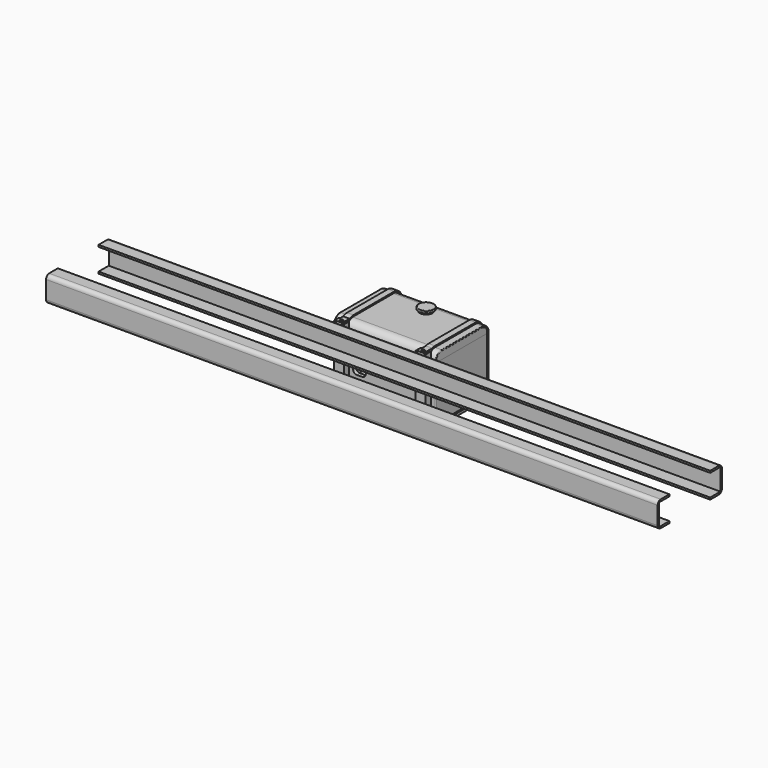
from build123d import *

# Parameters (mm, degrees)
BOX417_W                = 480
BOX417_H                = 10
BOX417_DEPTH            = 17
BOX416_W                = 480
BOX416_H                = 11.5
BOX416_DEPTH            = 20
FILLET268_R             = 3
BOX419_W                = 480
BOX419_H                = 10
BOX419_DEPTH            = 17
BOX418_W                = 480
BOX418_H                = 11.5
BOX418_DEPTH            = 20
FILLET269_R             = 3
BOX567_W                = 72
BOX567_H                = 44
BOX567_DEPTH            = 2
BOX566_W                = 77
BOX566_H                = 49
BOX566_DEPTH            = 2
FILLET396_R             = 2.5
BOX558_W                = 80
BOX558_H                = 52
BOX558_DEPTH            = 44
BOX563_W                = 74
BOX563_H                = 46
BOX563_DEPTH            = 44
FILLET395_R             = 4
BOX560_W                = 0.5
BOX560_H                = 51
BOX560_DEPTH            = 49
FILLET390_R             = 6
BOX562_W                = 0.5
BOX562_H                = 51
BOX562_DEPTH            = 49
FILLET393_R             = 6
BOX561_W                = 80
BOX561_H                = 52
BOX561_DEPTH            = 50
FILLET392_R             = 6
CYLINDER972_R           = 5
CYLINDER972_DEPTH       = 3
CYLINDER971_R           = 6
CYLINDER971_DEPTH       = 2
FILLET391_R             = 0.5
CHAMFER117_SIZE         = 0.49
CHAMFER118_SIZE         = 0.49
FILLET394_R             = 0.49
CYLINDER984_R           = 3
CYLINDER984_DEPTH       = 15
CYLINDER984_ROLL_ANGLE  = 90
CYLINDER983_R           = 3
CYLINDER983_DEPTH       = 15
CYLINDER983_ROLL_ANGLE  = 90
CYLINDER978_R           = 1.2
CYLINDER978_DEPTH       = 15
CYLINDER976_R           = 1.2
CYLINDER976_DEPTH       = 15
CYLINDER977_R           = 1.2
CYLINDER977_DEPTH       = 15
CYLINDER975_R           = 1.2
CYLINDER975_DEPTH       = 15
CYLINDER966_R           = 3.1
CYLINDER966_DEPTH       = 2
CYLINDER966_ROLL_ANGLE  = 90
CYLINDER967_R           = 3.1
CYLINDER967_DEPTH       = 2
CYLINDER967_ROLL_ANGLE  = 90
CYLINDER965_R           = 1.6
CYLINDER965_DEPTH       = 15
CYLINDER965_ROLL_ANGLE  = 90
CYLINDER964_R           = 1.6
CYLINDER964_DEPTH       = 15
CYLINDER964_ROLL_ANGLE  = 90
BOX565_W                = 74
BOX565_H                = 46
BOX565_DEPTH            = 2
BOX564_W                = 76
BOX564_H                = 48
BOX564_DEPTH            = 2
FILLET397_R             = 2
BOX554_W                = 10
BOX554_H                = 5
BOX554_DEPTH            = 15
FILLET388_R             = 3
BOX559_W                = 80
BOX559_H                = 52
BOX559_DEPTH            = 10
BOX541_W                = 74
BOX541_H                = 46
BOX541_DEPTH            = 44
FILLET_R                = 4
BOX517_W                = 0.5
BOX517_H                = 51
BOX517_DEPTH            = 49
FILLET372_R             = 6
BOX519_W                = 0.5
BOX519_H                = 51
BOX519_DEPTH            = 49
FILLET375_R             = 6
BOX518_W                = 80
BOX518_H                = 52
BOX518_DEPTH            = 50
FILLET374_R             = 6
CYLINDER951_R           = 5
CYLINDER951_DEPTH       = 3
CYLINDER950_R           = 6
CYLINDER950_DEPTH       = 2
FILLET373_R             = 0.5
CHAMFER109_SIZE         = 0.49
CHAMFER110_SIZE         = 0.49
FILLET376_R             = 0.49
CYLINDER954_R           = 1
CYLINDER954_DEPTH       = 8
CYLINDER954_PITCH_ANGLE = 90
CYLINDER979_R           = 0.9
CYLINDER979_DEPTH       = 15
CYLINDER980_R           = 0.9
CYLINDER980_DEPTH       = 15
CYLINDER973_R           = 1.6
CYLINDER973_DEPTH       = 15
CYLINDER973_ROLL_ANGLE  = 90
CYLINDER962_R           = 1
CYLINDER962_DEPTH       = 10
BOX540_W                = 5.5
BOX540_H                = 5
BOX540_DEPTH            = 2.5
BOX539_W                = 8
BOX539_H                = 5
BOX539_DEPTH            = 50
BOX527_W                = 5.5
BOX527_H                = 6
BOX527_DEPTH            = 4
BOX523_W                = 8
BOX523_H                = 55
BOX523_DEPTH            = 5
FILLET404_R             = 8
FILLET405_R             = 5
CYLINDER985_R           = 1
CYLINDER985_DEPTH       = 8
CYLINDER985_PITCH_ANGLE = 90
CYLINDER988_R           = 0.9
CYLINDER988_DEPTH       = 15
CYLINDER989_R           = 0.9
CYLINDER989_DEPTH       = 15
CYLINDER987_R           = 1.6
CYLINDER987_DEPTH       = 15
CYLINDER987_ROLL_ANGLE  = 90
CYLINDER986_R           = 1
CYLINDER986_DEPTH       = 10
BOX573_W                = 5.5
BOX573_H                = 5
BOX573_DEPTH            = 2.5
BOX572_W                = 8
BOX572_H                = 5
BOX572_DEPTH            = 50
BOX571_W                = 5.5
BOX571_H                = 6
BOX571_DEPTH            = 4
BOX570_W                = 8
BOX570_H                = 55
BOX570_DEPTH            = 5
FILLET406_R             = 8
FILLET407_R             = 5
CYLINDER992_R           = 1.2
CYLINDER992_DEPTH       = 10
CYLINDER991_R           = 1.1
CYLINDER991_DEPTH       = 5
CYLINDER991_PITCH_ANGLE = 90
BOX575_W                = 5
BOX575_H                = 52
BOX575_DEPTH            = 50
FILLET408_R             = 6
BOX577_W                = 5
BOX577_H                = 10
BOX577_DEPTH            = 2.5
CYLINDER990_R           = 2
CYLINDER990_DEPTH       = 5
CYLINDER990_PITCH_ANGLE = 90
BOX576_W                = 5
BOX576_H                = 51
BOX576_DEPTH            = 50
BOX574_W                = 5
BOX574_H                = 54
BOX574_DEPTH            = 52
FILLET409_R             = 7
CHAMFER119_SIZE         = 0.145
CYLINDER995_R           = 1.2
CYLINDER995_DEPTH       = 10
CYLINDER994_R           = 1.1
CYLINDER994_DEPTH       = 5
CYLINDER994_PITCH_ANGLE = 90
BOX579_W                = 5
BOX579_H                = 53
BOX579_DEPTH            = 51
FILLET410_R             = 6.5
CYLINDER993_R           = 2
CYLINDER993_DEPTH       = 5
CYLINDER993_PITCH_ANGLE = 90
BOX581_W                = 5
BOX581_H                = 10
BOX581_DEPTH            = 2.5
BOX580_W                = 5
BOX580_H                = 51
BOX580_DEPTH            = 50
BOX578_W                = 5
BOX578_H                = 55
BOX578_DEPTH            = 53
FILLET411_R             = 7.5
FILLET412_R             = 1.5


with BuildPart() as cube642:
    # Box417 → Box417 (new body)
    with BuildSketch(Plane(origin=(0, 1.5, -90.5), x_dir=(1, 0, 0), z_dir=(0, 0, 1))):
        with Locations((240, 5)):
            Rectangle(BOX417_W, BOX417_H)
    extrude(amount=BOX417_DEPTH)


with BuildPart() as fillet268:
    # Box416 → Box416 (new body)
    with BuildSketch(Plane.XY.offset(-92)):
        with Locations((240, 5.75)):
            Rectangle(BOX416_W, BOX416_H)
    extrude(amount=BOX416_DEPTH)

    # Cut429: cut Cube642
    add(cube642.part, mode=Mode.SUBTRACT)

    # Fillet268
    fillet268_edges = [fillet268.edges().sort_by_distance(p)[0] for p in [
        (240, 0, -72),
        (240, 0, -92),
    ]]
    fillet(fillet268_edges, radius=FILLET268_R)


with BuildPart() as fillet268_1:
    # Fillet268 placement: moved
    add(fillet268.part.moved(Location((0, -1.5, 0))))


with BuildPart() as cube644:
    # Box419 → Box419 (new body)
    with BuildSketch(Plane(origin=(0, 1.5, -90.5), x_dir=(1, 0, 0), z_dir=(0, 0, 1))):
        with Locations((240, 5)):
            Rectangle(BOX419_W, BOX419_H)
    extrude(amount=BOX419_DEPTH)


with BuildPart() as fillet269:
    # Box418 → Box418 (new body)
    with BuildSketch(Plane.XY.offset(-92)):
        with Locations((240, 5.75)):
            Rectangle(BOX418_W, BOX418_H)
    extrude(amount=BOX418_DEPTH)

    # Cut430: cut Cube644
    add(cube644.part, mode=Mode.SUBTRACT)

    # Fillet269
    fillet269_edges = [fillet269.edges().sort_by_distance(p)[0] for p in [
        (240, 0, -72),
        (240, 0, -92),
    ]]
    fillet(fillet269_edges, radius=FILLET269_R)


with BuildPart() as fusion231:
    # Part__Mirroring036: instance of Fillet269
    add(fillet269.part.mirror(Plane(origin=(0, 0, 0), x_dir=(1, 0, 0), z_dir=(0, 1, 0))))


with BuildPart() as fusion231_1:
    # Part__Mirroring036 placement: moved
    add(fusion231.part.moved(Location((0, 61.5, 0))))

    # Fusion231: union Fillet268
    add(fillet268_1.part)


with BuildPart() as fusion231_2:
    # Fusion231 placement: moved
    add(fusion231_1.part.moved(Location((23.5, 55, 74))))


with BuildPart() as cube768:
    # Box567 → Box567 (new body)
    with BuildSketch(Plane(origin=(199, 125.5, -5), x_dir=(1, 0, 0), z_dir=(0, 0, 1))):
        with Locations((36, 22)):
            Rectangle(BOX567_W, BOX567_H)
    extrude(amount=BOX567_DEPTH)


with BuildPart() as fillet396:
    # Box566 → Box566 (new body)
    with BuildSketch(Plane(origin=(196.5, 123, -5), x_dir=(1, 0, 0), z_dir=(0, 0, 1))):
        with Locations((38.5, 24.5)):
            Rectangle(BOX566_W, BOX566_H)
    extrude(amount=BOX566_DEPTH)

    # Cut014142: cut Cube768
    add(cube768.part, mode=Mode.SUBTRACT)

    # Fillet396
    fillet396_edges = [fillet396.edges().sort_by_distance(p)[0] for p in [
        (196.5, 123, -4),
        (196.5, 172, -4),
        (273.5, 123, -4),
        (273.5, 172, -4),
    ]]
    fillet(fillet396_edges, radius=FILLET396_R)


with BuildPart() as cube759:
    # Box558 → Box558 (new body)
    with BuildSketch(Plane(origin=(195, 121.5, -52), x_dir=(1, 0, 0), z_dir=(0, 0, 1))):
        with Locations((40, 26)):
            Rectangle(BOX558_W, BOX558_H)
    extrude(amount=BOX558_DEPTH)


with BuildPart() as fillet395:
    # Box563 → Box563 (new body)
    with BuildSketch(Plane(origin=(198, 124.5, -48), x_dir=(1, 0, 0), z_dir=(0, 0, 1))):
        with Locations((37, 23)):
            Rectangle(BOX563_W, BOX563_H)
    extrude(amount=BOX563_DEPTH)

    # Fillet395
    fillet395_edges = [fillet395.edges().sort_by_distance(p)[0] for p in [
        (235, 124.5, -48),
        (235, 124.5, -4),
        (235, 170.5, -48),
        (235, 170.5, -4),
    ]]
    fillet(fillet395_edges, radius=FILLET395_R)


with BuildPart() as fillet390:
    # Box560 → Box560 (new body)
    with BuildSketch(Plane(origin=(195, 122, -50.5), x_dir=(1, 0, 0), z_dir=(0, 0, 1))):
        with Locations((0.25, 25.5)):
            Rectangle(BOX560_W, BOX560_H)
    extrude(amount=BOX560_DEPTH)

    # Fillet390
    fillet390_edges = [fillet390.edges().sort_by_distance(p)[0] for p in [
        (195.25, 122, -50.5),
        (195.25, 122, -1.5),
        (195.25, 173, -50.5),
        (195.25, 173, -1.5),
    ]]
    fillet(fillet390_edges, radius=FILLET390_R)


with BuildPart() as fusion632:
    # Box562 → Box562 (new body)
    with BuildSketch(Plane(origin=(195, 122, -50.5), x_dir=(1, 0, 0), z_dir=(0, 0, 1))):
        with Locations((0.25, 25.5)):
            Rectangle(BOX562_W, BOX562_H)
    extrude(amount=BOX562_DEPTH)

    # Fillet393
    fillet393_edges = [fusion632.edges().sort_by_distance(p)[0] for p in [
        (195.25, 122, -50.5),
        (195.25, 122, -1.5),
        (195.25, 173, -50.5),
        (195.25, 173, -1.5),
    ]]
    fillet(fillet393_edges, radius=FILLET393_R)


with BuildPart() as fusion632_1:
    # Fillet393 placement: moved
    add(fusion632.part.moved(Location((79.5, 0, 0))))

    # Fusion632: union Fillet390
    add(fillet390.part)


with BuildPart() as fillet392:
    # Box561 → Box561 (new body)
    with BuildSketch(Plane(origin=(195, 121.5, -51), x_dir=(1, 0, 0), z_dir=(0, 0, 1))):
        with Locations((40, 26)):
            Rectangle(BOX561_W, BOX561_H)
    extrude(amount=BOX561_DEPTH)

    # Fillet392
    fillet392_edges = [fillet392.edges().sort_by_distance(p)[0] for p in [
        (235, 121.5, -51),
        (235, 121.5, -1),
        (235, 173.5, -51),
        (235, 173.5, -1),
    ]]
    fillet(fillet392_edges, radius=FILLET392_R)


with BuildPart() as cylinder1023:
    # Cylinder972 → Cylinder972 (new body)
    with BuildSketch(Plane(origin=(235, 162, -1), x_dir=(1, 0, 0), z_dir=(0, 0, 1))):
        Circle(CYLINDER972_R)
    extrude(amount=CYLINDER972_DEPTH)


with BuildPart() as fuel_tank_upper:
    # Cylinder971 → Cylinder971 (new body)
    with BuildSketch(Plane(origin=(235, 162, 0), x_dir=(1, 0, 0), z_dir=(0, 0, 1))):
        Circle(CYLINDER971_R)
    extrude(amount=CYLINDER971_DEPTH)

    # Fusion630: union Cylinder1023
    add(cylinder1023.part)

    # Fillet391
    fillet391_edges = [fuel_tank_upper.edges().sort_by_distance(p)[0] for p in [
        (229, 162, 2),
        (229, 162, 0),
    ]]
    fillet(fillet391_edges, radius=FILLET391_R)

    # Chamfer117
    chamfer117_edges = [fuel_tank_upper.edges().sort_by_distance(p)[0] for p in [
        (230, 162, 0),
    ]]
    chamfer(chamfer117_edges, length=CHAMFER117_SIZE)

    # Fusion631: union Fillet392
    add(fillet392.part)

    # Cut014136: cut Fusion632
    add(fusion632_1.part, mode=Mode.SUBTRACT)

    # Chamfer118
    chamfer118_edges = [fuel_tank_upper.edges().sort_by_distance(p)[0] for p in [
        (195.5, 147.5, -1.5),
        (274.5, 147.5, -1.5),
    ]]
    chamfer(chamfer118_edges, length=CHAMFER118_SIZE)

    # Fillet394
    fillet394_edges = [fuel_tank_upper.edges().sort_by_distance(p)[0] for p in [
        (195, 147.5, -1),
        (275, 147.5, -1),
    ]]
    fillet(fillet394_edges, radius=FILLET394_R)

    # Cut014137: cut Fillet395
    add(fillet395.part, mode=Mode.SUBTRACT)

    # Cut014138: cut Cube759
    add(cube759.part, mode=Mode.SUBTRACT)


with BuildPart() as fuel_tank_upper_1:
    # Cut014138 placement: moved
    add(fuel_tank_upper.part.moved(Location((0, 0, 3))))

    # Cut014143: cut Fillet396
    add(fillet396.part, mode=Mode.SUBTRACT)


with BuildPart() as cylinder1035:
    # Cylinder984 → Cylinder984 (new body)
    with BuildSketch(Plane.XY):
        Circle(CYLINDER984_R)
    extrude(amount=CYLINDER984_DEPTH)


with BuildPart() as cylinder1035_1:
    # Cylinder984 roll: moved
    add(cylinder1035.part.rotate(Axis((0, 0, 0), (1, 0, 0)), CYLINDER984_ROLL_ANGLE))


with BuildPart() as cylinder1035_2:
    # Cylinder984 placement: moved
    add(cylinder1035_1.part.moved(Location((267, 123, -8))))


with BuildPart() as fusion640:
    # Cylinder983 → Cylinder983 (new body)
    with BuildSketch(Plane.XY):
        Circle(CYLINDER983_R)
    extrude(amount=CYLINDER983_DEPTH)


with BuildPart() as fusion640_1:
    # Cylinder983 roll: moved
    add(fusion640.part.rotate(Axis((0, 0, 0), (1, 0, 0)), CYLINDER983_ROLL_ANGLE))


with BuildPart() as fusion640_2:
    # Cylinder983 placement: moved
    add(fusion640_1.part.moved(Location((203, 123, -8))))

    # Fusion640: union Cylinder1035
    add(cylinder1035_2.part)


with BuildPart() as fusion640_3:
    # Fusion640 placement: moved
    add(fusion640_2.part.moved(Location((0, 54, 6))))


with BuildPart() as cylinder1029:
    # Cylinder978 → Cylinder978 (new body)
    with BuildSketch(Plane(origin=(267, 132, -59), x_dir=(1, 0, 0), z_dir=(0, 0, 1))):
        Circle(CYLINDER978_R)
    extrude(amount=CYLINDER978_DEPTH)


with BuildPart() as cylinder1027:
    # Cylinder976 → Cylinder976 (new body)
    with BuildSketch(Plane(origin=(203, 163, -59), x_dir=(1, 0, 0), z_dir=(0, 0, 1))):
        Circle(CYLINDER976_R)
    extrude(amount=CYLINDER976_DEPTH)


with BuildPart() as cylinder1028:
    # Cylinder977 → Cylinder977 (new body)
    with BuildSketch(Plane(origin=(267, 163, -59), x_dir=(1, 0, 0), z_dir=(0, 0, 1))):
        Circle(CYLINDER977_R)
    extrude(amount=CYLINDER977_DEPTH)


with BuildPart() as fusion637:
    # Cylinder975 → Cylinder975 (new body)
    with BuildSketch(Plane(origin=(203, 132, -59), x_dir=(1, 0, 0), z_dir=(0, 0, 1))):
        Circle(CYLINDER975_R)
    extrude(amount=CYLINDER975_DEPTH)

    # Fusion637: union Cylinder1029, Cylinder1027, Cylinder1028
    add(cylinder1029.part)
    add(cylinder1027.part)
    add(cylinder1028.part)


with BuildPart() as cylinder1017:
    # Cylinder966 → Cylinder966 (new body)
    with BuildSketch(Plane.XY):
        Circle(CYLINDER966_R)
    extrude(amount=CYLINDER966_DEPTH)


with BuildPart() as cylinder1017_1:
    # Cylinder966 roll: moved
    add(cylinder1017.part.rotate(Axis((0, 0, 0), (1, 0, 0)), CYLINDER966_ROLL_ANGLE))


with BuildPart() as cylinder1017_2:
    # Cylinder966 placement: moved
    add(cylinder1017_1.part.moved(Location((203, 123, -8))))


with BuildPart() as cylinder1018:
    # Cylinder967 → Cylinder967 (new body)
    with BuildSketch(Plane.XY):
        Circle(CYLINDER967_R)
    extrude(amount=CYLINDER967_DEPTH)


with BuildPart() as cylinder1018_1:
    # Cylinder967 roll: moved
    add(cylinder1018.part.rotate(Axis((0, 0, 0), (1, 0, 0)), CYLINDER967_ROLL_ANGLE))


with BuildPart() as cylinder1018_2:
    # Cylinder967 placement: moved
    add(cylinder1018_1.part.moved(Location((267, 123, -8))))


with BuildPart() as cylinder1016:
    # Cylinder965 → Cylinder965 (new body)
    with BuildSketch(Plane.XY):
        Circle(CYLINDER965_R)
    extrude(amount=CYLINDER965_DEPTH)


with BuildPart() as cylinder1016_1:
    # Cylinder965 roll: moved
    add(cylinder1016.part.rotate(Axis((0, 0, 0), (1, 0, 0)), CYLINDER965_ROLL_ANGLE))


with BuildPart() as cylinder1016_2:
    # Cylinder965 placement: moved
    add(cylinder1016_1.part.moved(Location((267, 123, -8))))


with BuildPart() as fusion624:
    # Cylinder964 → Cylinder964 (new body)
    with BuildSketch(Plane.XY):
        Circle(CYLINDER964_R)
    extrude(amount=CYLINDER964_DEPTH)


with BuildPart() as fusion624_1:
    # Cylinder964 roll: moved
    add(fusion624.part.rotate(Axis((0, 0, 0), (1, 0, 0)), CYLINDER964_ROLL_ANGLE))


with BuildPart() as fusion624_2:
    # Cylinder964 placement: moved
    add(fusion624_1.part.moved(Location((203, 123, -8))))

    # Fusion624: union Cylinder1017, Cylinder1018, Cylinder1016
    add(cylinder1017_2.part)
    add(cylinder1018_2.part)
    add(cylinder1016_2.part)


with BuildPart() as fusion624_3:
    # Fusion624 placement: moved
    add(fusion624_2.part.moved(Location((0, 2.5, 0))))


with BuildPart() as cube766:
    # Box565 → Box565 (new body)
    with BuildSketch(Plane(origin=(198, 124.5, -5), x_dir=(1, 0, 0), z_dir=(0, 0, 1))):
        with Locations((37, 23)):
            Rectangle(BOX565_W, BOX565_H)
    extrude(amount=BOX565_DEPTH)


with BuildPart() as fillet397:
    # Box564 → Box564 (new body)
    with BuildSketch(Plane(origin=(197, 123.5, -5), x_dir=(1, 0, 0), z_dir=(0, 0, 1))):
        with Locations((38, 24)):
            Rectangle(BOX564_W, BOX564_H)
    extrude(amount=BOX564_DEPTH)

    # Cut014141: cut Cube766
    add(cube766.part, mode=Mode.SUBTRACT)

    # Fillet397
    fillet397_edges = [fillet397.edges().sort_by_distance(p)[0] for p in [
        (197, 123.5, -4),
        (197, 171.5, -4),
        (273, 123.5, -4),
        (273, 171.5, -4),
    ]]
    fillet(fillet397_edges, radius=FILLET397_R)


with BuildPart() as fillet388:
    # Box554 → Box554 (new body)
    with BuildSketch(Plane(origin=(210, 118.5, -33), x_dir=(1, 0, 0), z_dir=(0, 0, 1))):
        with Locations((5, 2.5)):
            Rectangle(BOX554_W, BOX554_H)
    extrude(amount=BOX554_DEPTH)

    # Fillet388
    fillet388_edges = [fillet388.edges().sort_by_distance(p)[0] for p in [
        (210, 121, -18),
        (210, 121, -33),
        (220, 121, -18),
        (220, 121, -33),
    ]]
    fillet(fillet388_edges, radius=FILLET388_R)


with BuildPart() as fillet388_1:
    # Fillet388 placement: moved
    add(fillet388.part.moved(Location((0, 1, 0))))


with BuildPart() as cube760:
    # Box559 → Box559 (new body)
    with BuildSketch(Plane(origin=(195, 121.5, -8), x_dir=(1, 0, 0), z_dir=(0, 0, 1))):
        with Locations((40, 26)):
            Rectangle(BOX559_W, BOX559_H)
    extrude(amount=BOX559_DEPTH)


with BuildPart() as fillet_body:
    # Box541 → Box541 (new body)
    with BuildSketch(Plane(origin=(198, 124.5, -48), x_dir=(1, 0, 0), z_dir=(0, 0, 1))):
        with Locations((37, 23)):
            Rectangle(BOX541_W, BOX541_H)
    extrude(amount=BOX541_DEPTH)

    # Fillet
    fillet_edges = [fillet_body.edges().sort_by_distance(p)[0] for p in [
        (235, 124.5, -48),
        (235, 124.5, -4),
        (235, 170.5, -48),
        (235, 170.5, -4),
    ]]
    fillet(fillet_edges, radius=FILLET_R)


with BuildPart() as fillet372:
    # Box517 → Box517 (new body)
    with BuildSketch(Plane(origin=(195, 122, -50.5), x_dir=(1, 0, 0), z_dir=(0, 0, 1))):
        with Locations((0.25, 25.5)):
            Rectangle(BOX517_W, BOX517_H)
    extrude(amount=BOX517_DEPTH)

    # Fillet372
    fillet372_edges = [fillet372.edges().sort_by_distance(p)[0] for p in [
        (195.25, 122, -50.5),
        (195.25, 122, -1.5),
        (195.25, 173, -50.5),
        (195.25, 173, -1.5),
    ]]
    fillet(fillet372_edges, radius=FILLET372_R)


with BuildPart() as fusion607:
    # Box519 → Box519 (new body)
    with BuildSketch(Plane(origin=(195, 122, -50.5), x_dir=(1, 0, 0), z_dir=(0, 0, 1))):
        with Locations((0.25, 25.5)):
            Rectangle(BOX519_W, BOX519_H)
    extrude(amount=BOX519_DEPTH)

    # Fillet375
    fillet375_edges = [fusion607.edges().sort_by_distance(p)[0] for p in [
        (195.25, 122, -50.5),
        (195.25, 122, -1.5),
        (195.25, 173, -50.5),
        (195.25, 173, -1.5),
    ]]
    fillet(fillet375_edges, radius=FILLET375_R)


with BuildPart() as fusion607_1:
    # Fillet375 placement: moved
    add(fusion607.part.moved(Location((79.5, 0, 0))))

    # Fusion607: union Fillet372
    add(fillet372.part)


with BuildPart() as fillet374:
    # Box518 → Box518 (new body)
    with BuildSketch(Plane(origin=(195, 121.5, -51), x_dir=(1, 0, 0), z_dir=(0, 0, 1))):
        with Locations((40, 26)):
            Rectangle(BOX518_W, BOX518_H)
    extrude(amount=BOX518_DEPTH)

    # Fillet374
    fillet374_edges = [fillet374.edges().sort_by_distance(p)[0] for p in [
        (235, 121.5, -51),
        (235, 121.5, -1),
        (235, 173.5, -51),
        (235, 173.5, -1),
    ]]
    fillet(fillet374_edges, radius=FILLET374_R)


with BuildPart() as cylinder1003:
    # Cylinder951 → Cylinder951 (new body)
    with BuildSketch(Plane(origin=(235, 162, -1), x_dir=(1, 0, 0), z_dir=(0, 0, 1))):
        Circle(CYLINDER951_R)
    extrude(amount=CYLINDER951_DEPTH)


with BuildPart() as fuel_tank_lower:
    # Cylinder950 → Cylinder950 (new body)
    with BuildSketch(Plane(origin=(235, 162, 0), x_dir=(1, 0, 0), z_dir=(0, 0, 1))):
        Circle(CYLINDER950_R)
    extrude(amount=CYLINDER950_DEPTH)

    # Fusion605: union Cylinder1003
    add(cylinder1003.part)

    # Fillet373
    fillet373_edges = [fuel_tank_lower.edges().sort_by_distance(p)[0] for p in [
        (229, 162, 2),
        (229, 162, 0),
    ]]
    fillet(fillet373_edges, radius=FILLET373_R)

    # Chamfer109
    chamfer109_edges = [fuel_tank_lower.edges().sort_by_distance(p)[0] for p in [
        (230, 162, 0),
    ]]
    chamfer(chamfer109_edges, length=CHAMFER109_SIZE)

    # Fusion606: union Fillet374
    add(fillet374.part)

    # Cut014115: cut Fusion607
    add(fusion607_1.part, mode=Mode.SUBTRACT)

    # Chamfer110
    chamfer110_edges = [fuel_tank_lower.edges().sort_by_distance(p)[0] for p in [
        (195.5, 147.5, -1.5),
        (274.5, 147.5, -1.5),
    ]]
    chamfer(chamfer110_edges, length=CHAMFER110_SIZE)

    # Fillet376
    fillet376_edges = [fuel_tank_lower.edges().sort_by_distance(p)[0] for p in [
        (195, 147.5, -1),
        (275, 147.5, -1),
    ]]
    fillet(fillet376_edges, radius=FILLET376_R)

    # Cut: cut Fillet body
    add(fillet_body.part, mode=Mode.SUBTRACT)

    # Cut014139: cut Cube760
    add(cube760.part, mode=Mode.SUBTRACT)


with BuildPart() as fuel_tank_lower_1:
    # Cut014139 placement: moved
    add(fuel_tank_lower.part.moved(Location((0, 0, 3))))

    # Cut014140: cut Fillet388
    add(fillet388_1.part, mode=Mode.SUBTRACT)

    # Fusion: union Fillet397
    add(fillet397.part)

    # Cut014148: cut Fusion624
    add(fusion624_3.part, mode=Mode.SUBTRACT)

    # Cut014149: cut Fusion637
    add(fusion637.part, mode=Mode.SUBTRACT)

    # Cut014152: cut Fusion640
    add(fusion640_3.part, mode=Mode.SUBTRACT)


with BuildPart() as cylinder1006:
    # Cylinder954 → Cylinder954 (new body)
    with BuildSketch(Plane.XY):
        Circle(CYLINDER954_R)
    extrude(amount=CYLINDER954_DEPTH)


with BuildPart() as cylinder1006_1:
    # Cylinder954 pitch: moved
    add(cylinder1006.part.rotate(Axis((0, 0, 0), (0, 1, 0)), CYLINDER954_PITCH_ANGLE))


with BuildPart() as cylinder1006_2:
    # Cylinder954 placement: moved
    add(cylinder1006_1.part.moved(Location((199, 169, -50))))


with BuildPart() as cylinder1030:
    # Cylinder979 → Cylinder979 (new body)
    with BuildSketch(Plane(origin=(203, 132, -59), x_dir=(1, 0, 0), z_dir=(0, 0, 1))):
        Circle(CYLINDER979_R)
    extrude(amount=CYLINDER979_DEPTH)


with BuildPart() as cylinder1031:
    # Cylinder980 → Cylinder980 (new body)
    with BuildSketch(Plane(origin=(203, 163, -59), x_dir=(1, 0, 0), z_dir=(0, 0, 1))):
        Circle(CYLINDER980_R)
    extrude(amount=CYLINDER980_DEPTH)


with BuildPart() as cylinder1024:
    # Cylinder973 → Cylinder973 (new body)
    with BuildSketch(Plane.XY):
        Circle(CYLINDER973_R)
    extrude(amount=CYLINDER973_DEPTH)


with BuildPart() as cylinder1024_1:
    # Cylinder973 roll: moved
    add(cylinder1024.part.rotate(Axis((0, 0, 0), (1, 0, 0)), CYLINDER973_ROLL_ANGLE))


with BuildPart() as cylinder1024_2:
    # Cylinder973 placement: moved
    add(cylinder1024_1.part.moved(Location((203, 123, -8))))


with BuildPart() as fusion643:
    # Cylinder962 → Cylinder962 (new body)
    with BuildSketch(Plane(origin=(203, 119, -6.5), x_dir=(1, 0, 0), z_dir=(0, 0, 1))):
        Circle(CYLINDER962_R)
    extrude(amount=CYLINDER962_DEPTH)

    # Fusion643: union Cylinder1006, Cylinder1030, Cylinder1031, Cylinder1024
    add(cylinder1006_2.part)
    add(cylinder1030.part)
    add(cylinder1031.part)
    add(cylinder1024_2.part)


with BuildPart() as cube741:
    # Box540 → Box540 (new body)
    with BuildSketch(Plane(origin=(200.25, 116.5, -0.5), x_dir=(1, 0, 0), z_dir=(0, 0, 1))):
        with Locations((2.75, 2.5)):
            Rectangle(BOX540_W, BOX540_H)
    extrude(amount=BOX540_DEPTH)


with BuildPart() as cut014175:
    # Box539 → Box539 (new body)
    with BuildSketch(Plane(origin=(199, 116.5, -48), x_dir=(1, 0, 0), z_dir=(0, 0, 1))):
        with Locations((4, 2.5)):
            Rectangle(BOX539_W, BOX539_H)
    extrude(amount=BOX539_DEPTH)

    # Cut014158: cut Cube741
    add(cube741.part, mode=Mode.SUBTRACT)


with BuildPart() as cube728:
    # Box527 → Box527 (new body)
    with BuildSketch(Plane(origin=(200.25, 165.5, -52), x_dir=(1, 0, 0), z_dir=(0, 0, 1))):
        with Locations((2.75, 3)):
            Rectangle(BOX527_W, BOX527_H)
    extrude(amount=BOX527_DEPTH)


with BuildPart() as fuel_tank_holder_front:
    # Box523 → Box523 (new body)
    with BuildSketch(Plane(origin=(199, 116.5, -53), x_dir=(1, 0, 0), z_dir=(0, 0, 1))):
        with Locations((4, 27.5)):
            Rectangle(BOX523_W, BOX523_H)
    extrude(amount=BOX523_DEPTH)

    # Cut014157: cut Cube728
    add(cube728.part, mode=Mode.SUBTRACT)

    # Fusion644: union Cut014175
    add(cut014175.part)

    # Cut014159: cut Fusion643
    add(fusion643.part, mode=Mode.SUBTRACT)

    # Fillet404
    fillet404_edges = [fuel_tank_holder_front.edges().sort_by_distance(p)[0] for p in [
        (203, 116.5, -53),
    ]]
    fillet(fillet404_edges, radius=FILLET404_R)

    # Fillet405
    fillet405_edges = [fuel_tank_holder_front.edges().sort_by_distance(p)[0] for p in [
        (203, 121.5, -48),
    ]]
    fillet(fillet405_edges, radius=FILLET405_R)


with BuildPart() as cylinder1036:
    # Cylinder985 → Cylinder985 (new body)
    with BuildSketch(Plane.XY):
        Circle(CYLINDER985_R)
    extrude(amount=CYLINDER985_DEPTH)


with BuildPart() as cylinder1036_1:
    # Cylinder985 pitch: moved
    add(cylinder1036.part.rotate(Axis((0, 0, 0), (0, 1, 0)), CYLINDER985_PITCH_ANGLE))


with BuildPart() as cylinder1036_2:
    # Cylinder985 placement: moved
    add(cylinder1036_1.part.moved(Location((199, 169, -50))))


with BuildPart() as cylinder1039:
    # Cylinder988 → Cylinder988 (new body)
    with BuildSketch(Plane(origin=(203, 132, -59), x_dir=(1, 0, 0), z_dir=(0, 0, 1))):
        Circle(CYLINDER988_R)
    extrude(amount=CYLINDER988_DEPTH)


with BuildPart() as cylinder1040:
    # Cylinder989 → Cylinder989 (new body)
    with BuildSketch(Plane(origin=(203, 163, -59), x_dir=(1, 0, 0), z_dir=(0, 0, 1))):
        Circle(CYLINDER989_R)
    extrude(amount=CYLINDER989_DEPTH)


with BuildPart() as cylinder1038:
    # Cylinder987 → Cylinder987 (new body)
    with BuildSketch(Plane.XY):
        Circle(CYLINDER987_R)
    extrude(amount=CYLINDER987_DEPTH)


with BuildPart() as cylinder1038_1:
    # Cylinder987 roll: moved
    add(cylinder1038.part.rotate(Axis((0, 0, 0), (1, 0, 0)), CYLINDER987_ROLL_ANGLE))


with BuildPart() as cylinder1038_2:
    # Cylinder987 placement: moved
    add(cylinder1038_1.part.moved(Location((203, 123, -8))))


with BuildPart() as fusion645:
    # Cylinder986 → Cylinder986 (new body)
    with BuildSketch(Plane(origin=(203, 119, -6.5), x_dir=(1, 0, 0), z_dir=(0, 0, 1))):
        Circle(CYLINDER986_R)
    extrude(amount=CYLINDER986_DEPTH)

    # Fusion645: union Cylinder1036, Cylinder1039, Cylinder1040, Cylinder1038
    add(cylinder1036_2.part)
    add(cylinder1039.part)
    add(cylinder1040.part)
    add(cylinder1038_2.part)


with BuildPart() as cube774:
    # Box573 → Box573 (new body)
    with BuildSketch(Plane(origin=(200.25, 116.5, -0.5), x_dir=(1, 0, 0), z_dir=(0, 0, 1))):
        with Locations((2.75, 2.5)):
            Rectangle(BOX573_W, BOX573_H)
    extrude(amount=BOX573_DEPTH)


with BuildPart() as cut014181:
    # Box572 → Box572 (new body)
    with BuildSketch(Plane(origin=(199, 116.5, -48), x_dir=(1, 0, 0), z_dir=(0, 0, 1))):
        with Locations((4, 2.5)):
            Rectangle(BOX572_W, BOX572_H)
    extrude(amount=BOX572_DEPTH)

    # Cut014161: cut Cube774
    add(cube774.part, mode=Mode.SUBTRACT)


with BuildPart() as cube772:
    # Box571 → Box571 (new body)
    with BuildSketch(Plane(origin=(200.25, 165.5, -52), x_dir=(1, 0, 0), z_dir=(0, 0, 1))):
        with Locations((2.75, 3)):
            Rectangle(BOX571_W, BOX571_H)
    extrude(amount=BOX571_DEPTH)


with BuildPart() as fuel_tank_holder_rear:
    # Box570 → Box570 (new body)
    with BuildSketch(Plane(origin=(199, 116.5, -53), x_dir=(1, 0, 0), z_dir=(0, 0, 1))):
        with Locations((4, 27.5)):
            Rectangle(BOX570_W, BOX570_H)
    extrude(amount=BOX570_DEPTH)

    # Cut014160: cut Cube772
    add(cube772.part, mode=Mode.SUBTRACT)

    # Fusion646: union Cut014181
    add(cut014181.part)

    # Cut014162: cut Fusion645
    add(fusion645.part, mode=Mode.SUBTRACT)

    # Fillet406
    fillet406_edges = [fuel_tank_holder_rear.edges().sort_by_distance(p)[0] for p in [
        (203, 116.5, -53),
    ]]
    fillet(fillet406_edges, radius=FILLET406_R)

    # Fillet407
    fillet407_edges = [fuel_tank_holder_rear.edges().sort_by_distance(p)[0] for p in [
        (203, 121.5, -48),
    ]]
    fillet(fillet407_edges, radius=FILLET407_R)


with BuildPart() as fuel_tank_holder_rear_1:
    # Fillet407 placement: moved
    add(fuel_tank_holder_rear.part.moved(Location((64, 0, 0))))


with BuildPart() as cylinder1043:
    # Cylinder992 → Cylinder992 (new body)
    with BuildSketch(Plane(origin=(203.5, 119, -7.5), x_dir=(1, 0, 0), z_dir=(0, 0, 1))):
        Circle(CYLINDER992_R)
    extrude(amount=CYLINDER992_DEPTH)


with BuildPart() as fusion650:
    # Cylinder991 → Cylinder991 (new body)
    with BuildSketch(Plane.XY):
        Circle(CYLINDER991_R)
    extrude(amount=CYLINDER991_DEPTH)


with BuildPart() as fusion650_1:
    # Cylinder991 pitch: moved
    add(fusion650.part.rotate(Axis((0, 0, 0), (0, 1, 0)), CYLINDER991_PITCH_ANGLE))


with BuildPart() as fusion650_2:
    # Cylinder991 placement: moved
    add(fusion650_1.part.moved(Location((201, 169, -50))))

    # Fusion650: union Cylinder1043
    add(cylinder1043.part)


with BuildPart() as fusion650_3:
    # Fusion650 placement: moved
    add(fusion650_2.part.moved(Location((-0.5, 0, 0))))


with BuildPart() as fillet408:
    # Box575 → Box575 (new body)
    with BuildSketch(Plane(origin=(201, 121.5, -48), x_dir=(1, 0, 0), z_dir=(0, 0, 1))):
        with Locations((2.5, 26)):
            Rectangle(BOX575_W, BOX575_H)
    extrude(amount=BOX575_DEPTH)

    # Fillet408
    fillet408_edges = [fillet408.edges().sort_by_distance(p)[0] for p in [
        (203.5, 121.5, -48),
        (203.5, 121.5, 2),
        (203.5, 173.5, -48),
        (203.5, 173.5, 2),
    ]]
    fillet(fillet408_edges, radius=FILLET408_R)


with BuildPart() as cube778:
    # Box577 → Box577 (new body)
    with BuildSketch(Plane(origin=(201, 116.5, 0), x_dir=(1, 0, 0), z_dir=(0, 0, 1))):
        with Locations((2.5, 5)):
            Rectangle(BOX577_W, BOX577_H)
    extrude(amount=BOX577_DEPTH)


with BuildPart() as cylinder1041:
    # Cylinder990 → Cylinder990 (new body)
    with BuildSketch(Plane.XY):
        Circle(CYLINDER990_R)
    extrude(amount=CYLINDER990_DEPTH)


with BuildPart() as cylinder1041_1:
    # Cylinder990 pitch: moved
    add(cylinder1041.part.rotate(Axis((0, 0, 0), (0, 1, 0)), CYLINDER990_PITCH_ANGLE))


with BuildPart() as cylinder1041_2:
    # Cylinder990 placement: moved
    add(cylinder1041_1.part.moved(Location((201, 169, -50))))


with BuildPart() as cube777:
    # Box576 → Box576 (new body)
    with BuildSketch(Plane(origin=(201, 117.5, -50), x_dir=(1, 0, 0), z_dir=(0, 0, 1))):
        with Locations((2.5, 25.5)):
            Rectangle(BOX576_W, BOX576_H)
    extrude(amount=BOX576_DEPTH)


with BuildPart() as fuel_tank_lace_rear:
    # Box574 → Box574 (new body)
    with BuildSketch(Plane(origin=(201, 120.5, -48), x_dir=(1, 0, 0), z_dir=(0, 0, 1))):
        with Locations((2.5, 27)):
            Rectangle(BOX574_W, BOX574_H)
    extrude(amount=BOX574_DEPTH)

    # Fillet409
    fillet409_edges = [fuel_tank_lace_rear.edges().sort_by_distance(p)[0] for p in [
        (203.5, 120.5, -48),
        (203.5, 120.5, 4),
        (203.5, 174.5, -48),
        (203.5, 174.5, 4),
    ]]
    fillet(fillet409_edges, radius=FILLET409_R)


with BuildPart() as fuel_tank_lace_rear_1:
    # Fillet409 placement: moved
    add(fuel_tank_lace_rear.part.moved(Location((0, 0, -1))))

    # Cut014170: cut Cube777
    add(cube777.part, mode=Mode.SUBTRACT)

    # Fusion649: union Cube778, Cylinder1041
    add(cube778.part)
    add(cylinder1041_2.part)

    # Cut014171: cut Fillet408
    add(fillet408.part, mode=Mode.SUBTRACT)


with BuildPart() as fuel_tank_lace_rear_2:
    # Cut014171 placement: moved
    add(fuel_tank_lace_rear_1.part.moved(Location((-0.5, 0, 0))))

    # Cut014172: cut Fusion650
    add(fusion650_3.part, mode=Mode.SUBTRACT)

    # Chamfer119
    chamfer119_edges = [fuel_tank_lace_rear_2.edges().sort_by_distance(p)[0] for p in [
        (203, 168.5, -48.063508),
    ]]
    chamfer(chamfer119_edges, length=CHAMFER119_SIZE)


with BuildPart() as fuel_tank_lace_rear_3:
    # Chamfer119 placement: moved
    add(fuel_tank_lace_rear_2.part.moved(Location((64, 0, 0))))


with BuildPart() as cylinder1046:
    # Cylinder995 → Cylinder995 (new body)
    with BuildSketch(Plane(origin=(203.5, 119, -7.5), x_dir=(1, 0, 0), z_dir=(0, 0, 1))):
        Circle(CYLINDER995_R)
    extrude(amount=CYLINDER995_DEPTH)


with BuildPart() as fusion652:
    # Cylinder994 → Cylinder994 (new body)
    with BuildSketch(Plane.XY):
        Circle(CYLINDER994_R)
    extrude(amount=CYLINDER994_DEPTH)


with BuildPart() as fusion652_1:
    # Cylinder994 pitch: moved
    add(fusion652.part.rotate(Axis((0, 0, 0), (0, 1, 0)), CYLINDER994_PITCH_ANGLE))


with BuildPart() as fusion652_2:
    # Cylinder994 placement: moved
    add(fusion652_1.part.moved(Location((201, 169, -50))))

    # Fusion652: union Cylinder1046
    add(cylinder1046.part)


with BuildPart() as fusion652_3:
    # Fusion652 placement: moved
    add(fusion652_2.part.moved(Location((-0.5, 0, 0))))


with BuildPart() as fillet410:
    # Box579 → Box579 (new body)
    with BuildSketch(Plane(origin=(200.5, 121, -48.5), x_dir=(1, 0, 0), z_dir=(0, 0, 1))):
        with Locations((2.5, 26.5)):
            Rectangle(BOX579_W, BOX579_H)
    extrude(amount=BOX579_DEPTH)

    # Fillet410
    fillet410_edges = [fillet410.edges().sort_by_distance(p)[0] for p in [
        (203, 121, -48.5),
        (203, 121, 2.5),
        (203, 174, -48.5),
        (203, 174, 2.5),
    ]]
    fillet(fillet410_edges, radius=FILLET410_R)


with BuildPart() as cylinder1044:
    # Cylinder993 → Cylinder993 (new body)
    with BuildSketch(Plane.XY):
        Circle(CYLINDER993_R)
    extrude(amount=CYLINDER993_DEPTH)


with BuildPart() as cylinder1044_1:
    # Cylinder993 pitch: moved
    add(cylinder1044.part.rotate(Axis((0, 0, 0), (0, 1, 0)), CYLINDER993_PITCH_ANGLE))


with BuildPart() as cylinder1044_2:
    # Cylinder993 placement: moved
    add(cylinder1044_1.part.moved(Location((200.5, 169, -50))))


with BuildPart() as cube782:
    # Box581 → Box581 (new body)
    with BuildSketch(Plane(origin=(200.5, 116.5, 0), x_dir=(1, 0, 0), z_dir=(0, 0, 1))):
        with Locations((2.5, 5)):
            Rectangle(BOX581_W, BOX581_H)
    extrude(amount=BOX581_DEPTH)


with BuildPart() as cube781:
    # Box580 → Box580 (new body)
    with BuildSketch(Plane(origin=(200.5, 117.5, -50), x_dir=(1, 0, 0), z_dir=(0, 0, 1))):
        with Locations((2.5, 25.5)):
            Rectangle(BOX580_W, BOX580_H)
    extrude(amount=BOX580_DEPTH)


with BuildPart() as fuel_tank_lace_front:
    # Box578 → Box578 (new body)
    with BuildSketch(Plane(origin=(200.5, 120, -48.5), x_dir=(1, 0, 0), z_dir=(0, 0, 1))):
        with Locations((2.5, 27.5)):
            Rectangle(BOX578_W, BOX578_H)
    extrude(amount=BOX578_DEPTH)

    # Fillet411
    fillet411_edges = [fuel_tank_lace_front.edges().sort_by_distance(p)[0] for p in [
        (203, 120, -48.5),
        (203, 120, 4.5),
        (203, 175, -48.5),
        (203, 175, 4.5),
    ]]
    fillet(fillet411_edges, radius=FILLET411_R)


with BuildPart() as fuel_tank_lace_front_1:
    # Fillet411 placement: moved
    add(fuel_tank_lace_front.part.moved(Location((0, 0, -1))))

    # Cut014173: cut Cube781
    add(cube781.part, mode=Mode.SUBTRACT)

    # Fusion653: union Cylinder1044, Cube782
    add(cylinder1044_2.part)
    add(cube782.part)

    # Cut014174: cut Fillet410
    add(fillet410.part, mode=Mode.SUBTRACT)

    # Cut014175: cut Fusion652
    add(fusion652_3.part, mode=Mode.SUBTRACT)

    # Fillet412
    fillet412_edges = [fuel_tank_lace_front_1.edges().sort_by_distance(p)[0] for p in [
        (203, 122.376525, 0),
        (203, 167.679955, -48.497508),
    ]]
    fillet(fillet412_edges, radius=FILLET412_R)


solid = Compound([fusion231_2.part, fuel_tank_upper_1.part, fuel_tank_lower_1.part, fuel_tank_holder_front.part, fuel_tank_holder_rear_1.part, fuel_tank_lace_rear_3.part, fuel_tank_lace_front_1.part])
